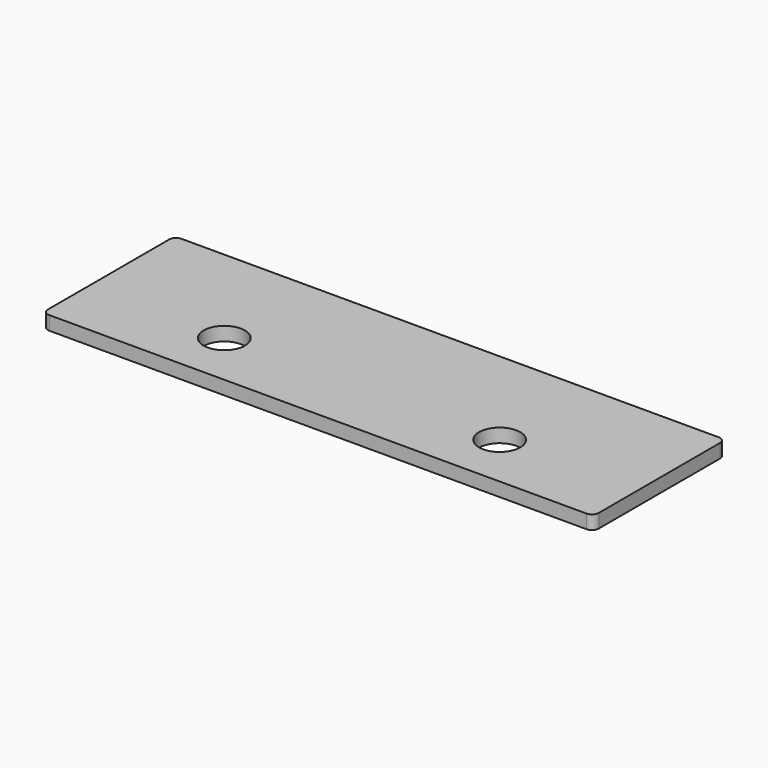
from build123d import *

# Parameters (mm, degrees)
F0_W     = 254
F0_H     = 76.2
F1_DEPTH = 6.35
F2_R     = 9.525
F3_DEPTH = 25.4
F4_R     = 3.175


with BuildPart() as f1:
    # F0 (on Top) → F1 (new body)
    with BuildSketch(Plane.XY):
        with Locations((127, -38.1)):
            Rectangle(F0_W, F0_H)
    extrude(amount=-F1_DEPTH)

    # F2 (on face) → F3 (cut)
    with BuildSketch(Plane.XY):
        with Locations((63.5, -50.8)):
            Circle(F2_R)
        with Locations((190.5, -50.8)):
            Circle(F2_R)
    extrude(amount=-F3_DEPTH, mode=Mode.SUBTRACT)

    # F4
    f4_edges = [f1.edges().sort_by_distance(p)[0] for p in [
        (254, -76.2, -3.175),
        (254, 0, -3.175),
        (0, -76.2, -3.175),
        (0, 0, -3.175),
    ]]
    fillet(f4_edges, radius=F4_R)


solid = f1.part
